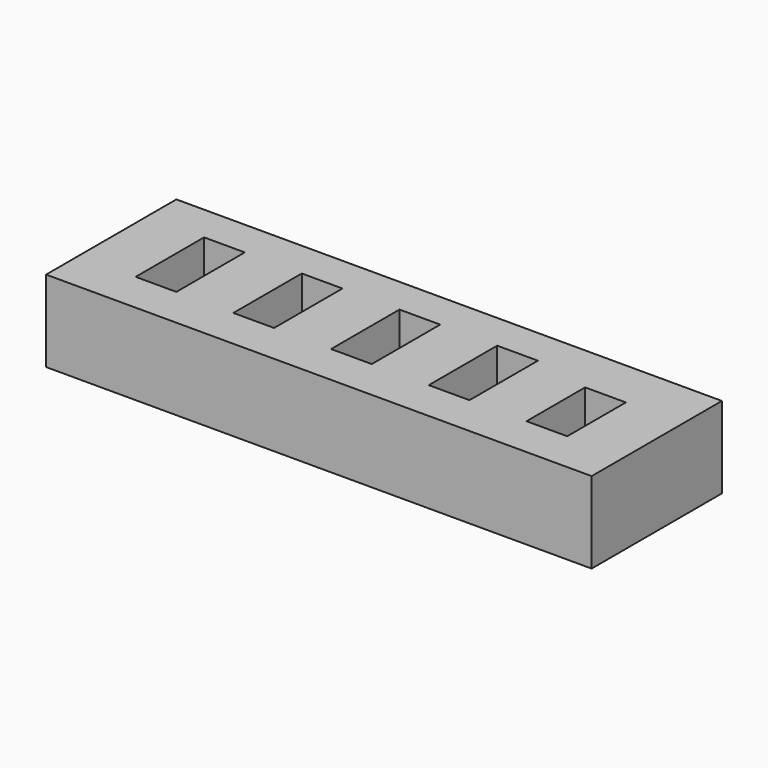
from build123d import *

# Parameters (mm, degrees)
F0_W     = 67
F0_H     = 20
F0_W_2   = 5
F0_H_2   = 9
F0_H_3   = 10.5
F1_DEPTH = 10


with BuildPart() as f1:
    # F0 (on Top) → F1 (new body)
    with BuildSketch(Plane.XY):
        with Locations((2.5, 1.031276)):
            Rectangle(F0_W, F0_H)
        with Locations((26.5, 0.531276)):
            Rectangle(F0_W_2, F0_H_2, mode=Mode.SUBTRACT)
        with Locations((-21.5, 1.281276)):
            Rectangle(F0_W_2, F0_H_3, mode=Mode.SUBTRACT)
        with Locations((-9.5, 1.281276)):
            Rectangle(F0_W_2, F0_H_3, mode=Mode.SUBTRACT)
        with Locations((2.5, 1.281276)):
            Rectangle(F0_W_2, F0_H_3, mode=Mode.SUBTRACT)
        with Locations((14.5, 1.281276)):
            Rectangle(F0_W_2, F0_H_3, mode=Mode.SUBTRACT)
    extrude(amount=F1_DEPTH)


solid = f1.part
